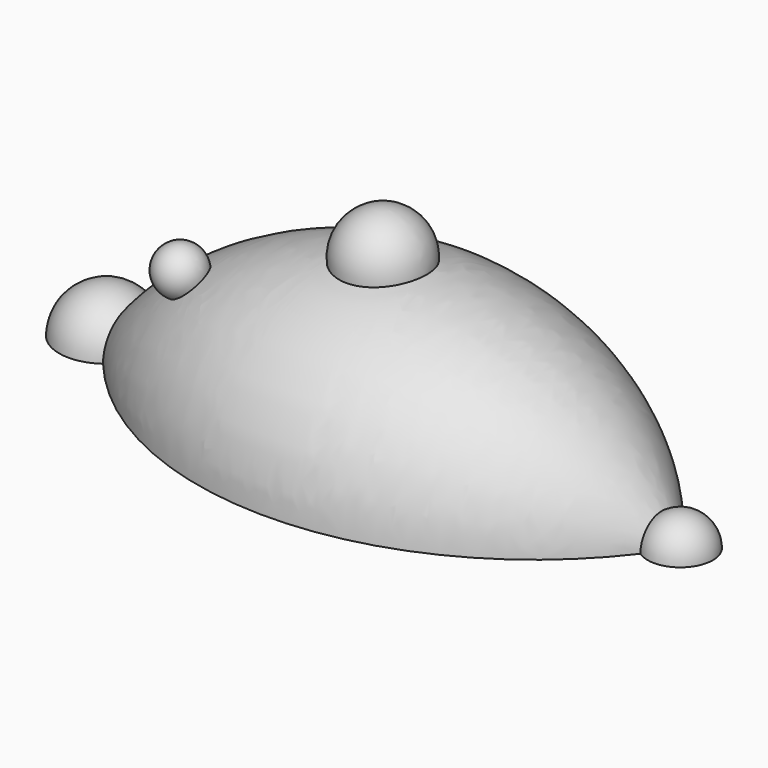
from build123d import *

# Parameters (mm, degrees)
F1_ANGLE_BACK = 90
F1_ANGLE      = 180


with BuildPart() as f1:
    # F0 (on Front) → F1 (revolve)
    with BuildSketch(Plane.XZ, mode=Mode.PRIVATE) as f1_sk:
        with BuildLine():
            Line((-174.5481213674, 0), (-125.4518786326, 0))
            Line((-125.4518786326, 0), (0, 0))
            Line((0, 0), (150, 0))
            Line((150, 0), (167.0159689891, 0))
            ThreePointArc((167.0159689891, 0), (157.9297031271, 15.055331579), (140.3747581242, 14.0320319081))
            ThreePointArc((140.3747581242, 14.0320319081), (3.7724218582, 83.6518636745), (-135.6840638443, 19.9415203696))
            ThreePointArc((-135.6840638443, 19.9415203696), (-161.2067150501, 21.8407829633), (-174.5481213674, 0))
        make_face()
    revolve(f1_sk.sketch.rotate(Axis((75, 0, 0), (1, 0, 0)), -F1_ANGLE_BACK), axis=Axis((75, 0, 0), (1, 0, 0)), revolution_arc=F1_ANGLE)

    # F2 (on Front) → F3 (revolve)
    with BuildSketch(Plane.XZ):
        with BuildLine():
            Line((-5.4278934686, 106.4453259364), (-5.4278934686, 83.4453259364))
            Line((-5.4278934686, 83.4453259364), (-5.4278934686, 60.4453259364))
            ThreePointArc((-5.4278934686, 60.4453259364), (17.5721065314, 83.4453259364), (-5.4278934686, 106.4453259364))
        make_face()
    revolve(axis=Axis((-5.4278934686, 0, 94.9453259364), (0, 0, 1)))

    # F5 (on offset) → F6 (revolve)
    with BuildSketch(Plane.XZ.offset(25)):
        with BuildLine():
            Line((-91.3620953561, 72.0958850223), (-91.3620953561, 47.0958850223))
            ThreePointArc((-91.3620953561, 47.0958850223), (-78.8620953561, 59.5958850223), (-91.3620953561, 72.0958850223))
        make_face()
    revolve(axis=Axis((-91.3620953561, -25, 59.5958850223), (0, 0, -1)))


solid = f1.part
